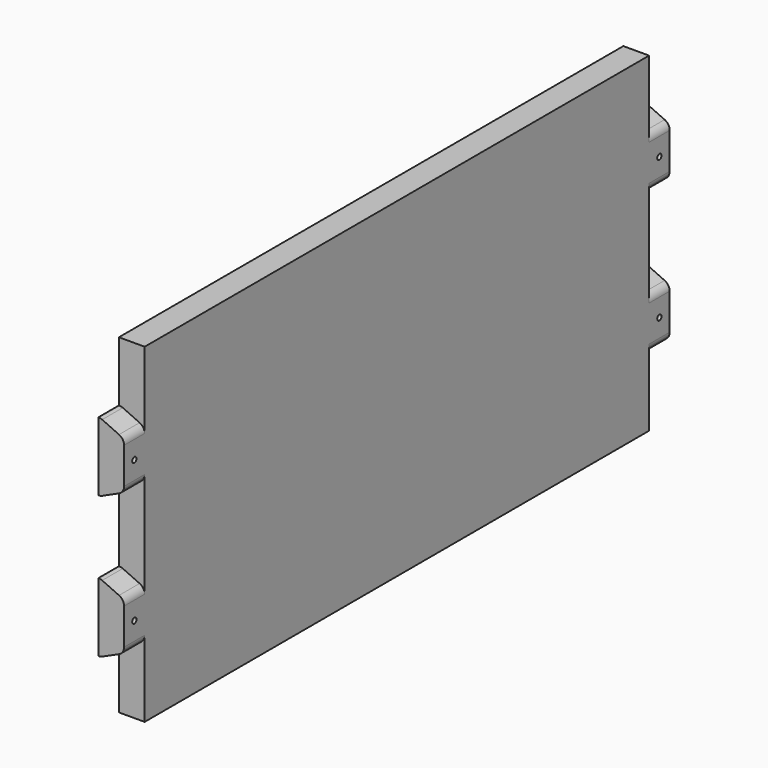
from build123d import *

# Parameters (mm, degrees)
F0_W     = 504.825
F0_H     = 244.475
F1_DEPTH = 19.05
F4_DEPTH = 19.05
F5_DEPTH = 19.05
F6_R     = 1.984375
F7_DEPTH = 19.05


with BuildPart() as f1:
    # F0 (on Right) → F1 (new body)
    with BuildSketch(Plane.YZ):
        Rectangle(F0_W, F0_H)
    extrude(amount=F1_DEPTH)

    # F3 (on face) → F4 (cut)
    with BuildSketch(Plane(origin=(0, 252.4125, 0), x_dir=(-1, 0, 0), z_dir=(0, 1, 0))):
        with BuildLine():
            Line((0, 77.7875), (0, 122.2375))
            Line((0, 122.2375), (-19.05, 122.2375))
            Line((-19.05, 122.2375), (-19.05, 65.761152))
            ThreePointArc((-19.05, 65.761152), (-18.038918, 69.19895), (-15.327651, 71.541978))
            Line((-15.327651, 71.541978), (-2.839702, 77.218326))
            ThreePointArc((-2.839702, 77.218326), (-1.556345, 77.643575), (-0.21205, 77.7875))
            Line((-0.21205, 77.7875), (0, 77.7875))
        make_face()
        with BuildLine():
            Line((0, -26.9875), (0, 26.9875))
            Line((0, 26.9875), (-0.21205, 26.9875))
            ThreePointArc((-0.21205, 26.9875), (-1.556345, 27.131425), (-2.839702, 27.556674))
            Line((-2.839702, 27.556674), (-15.327651, 33.233022))
            ThreePointArc((-15.327651, 33.233022), (-18.038918, 35.57605), (-19.05, 39.013848))
            Line((-19.05, 39.013848), (-19.05, -39.013848))
            ThreePointArc((-19.05, -39.013848), (-18.038918, -35.57605), (-15.327651, -33.233022))
            Line((-15.327651, -33.233022), (-2.839702, -27.556674))
            ThreePointArc((-2.839702, -27.556674), (-1.556345, -27.131425), (-0.21205, -26.9875))
            Line((-0.21205, -26.9875), (0, -26.9875))
        make_face()
        with BuildLine():
            Line((0, -122.2375), (0, -77.7875))
            Line((0, -77.7875), (-0.21205, -77.7875))
            ThreePointArc((-0.21205, -77.7875), (-1.556345, -77.643575), (-2.839702, -77.218326))
            Line((-2.839702, -77.218326), (-15.327651, -71.541978))
            ThreePointArc((-15.327651, -71.541978), (-18.038918, -69.19895), (-19.05, -65.761152))
            Line((-19.05, -65.761152), (-19.05, -122.2375))
            Line((-19.05, -122.2375), (0, -122.2375))
        make_face()
    extrude(amount=-F4_DEPTH, mode=Mode.SUBTRACT)

    # F2 (on face) → F5 (cut)
    with BuildSketch(Plane.XZ.offset(252.4125)):
        with BuildLine():
            Line((0, 122.2375), (0, 77.7875))
            Line((0, 77.7875), (0.21205, 77.7875))
            ThreePointArc((0.21205, 77.7875), (1.556345, 77.643575), (2.839702, 77.218326))
            Line((2.839702, 77.218326), (15.327651, 71.541978))
            ThreePointArc((15.327651, 71.541978), (18.038918, 69.19895), (19.05, 65.761152))
            Line((19.05, 65.761152), (19.05, 122.2375))
            Line((19.05, 122.2375), (0, 122.2375))
        make_face()
        with BuildLine():
            Line((0, 26.9875), (0, -26.9875))
            Line((0, -26.9875), (0.21205, -26.9875))
            ThreePointArc((0.21205, -26.9875), (1.556345, -27.131425), (2.839702, -27.556674))
            Line((2.839702, -27.556674), (15.327651, -33.233022))
            ThreePointArc((15.327651, -33.233022), (18.038918, -35.57605), (19.05, -39.013848))
            Line((19.05, -39.013848), (19.05, 39.013848))
            ThreePointArc((19.05, 39.013848), (18.038918, 35.57605), (15.327651, 33.233022))
            Line((15.327651, 33.233022), (2.839702, 27.556674))
            ThreePointArc((2.839702, 27.556674), (1.556345, 27.131425), (0.21205, 26.9875))
            Line((0.21205, 26.9875), (0, 26.9875))
        make_face()
        with BuildLine():
            Line((0, -77.7875), (0, -122.2375))
            Line((0, -122.2375), (19.05, -122.2375))
            Line((19.05, -122.2375), (19.05, -65.761152))
            ThreePointArc((19.05, -65.761152), (18.038918, -69.19895), (15.327651, -71.541978))
            Line((15.327651, -71.541978), (2.839702, -77.218326))
            ThreePointArc((2.839702, -77.218326), (1.556345, -77.643575), (0.21205, -77.7875))
            Line((0.21205, -77.7875), (0, -77.7875))
        make_face()
    extrude(amount=-F5_DEPTH, mode=Mode.SUBTRACT)

    # F6 (on face) → F7 (cut)
    with BuildSketch(Plane(origin=(0, 0, 0), x_dir=(0, -1, 0), z_dir=(-1, 0, 0))):
        with Locations((-242.8875, -52.3875)):
            Circle(F6_R)
        with Locations((-242.8875, 52.3875)):
            Circle(F6_R)
        with Locations((242.8875, 52.3875)):
            Circle(F6_R)
        with Locations((242.8875, -52.3875)):
            Circle(F6_R)
    extrude(amount=-F7_DEPTH, mode=Mode.SUBTRACT)


solid = f1.part
